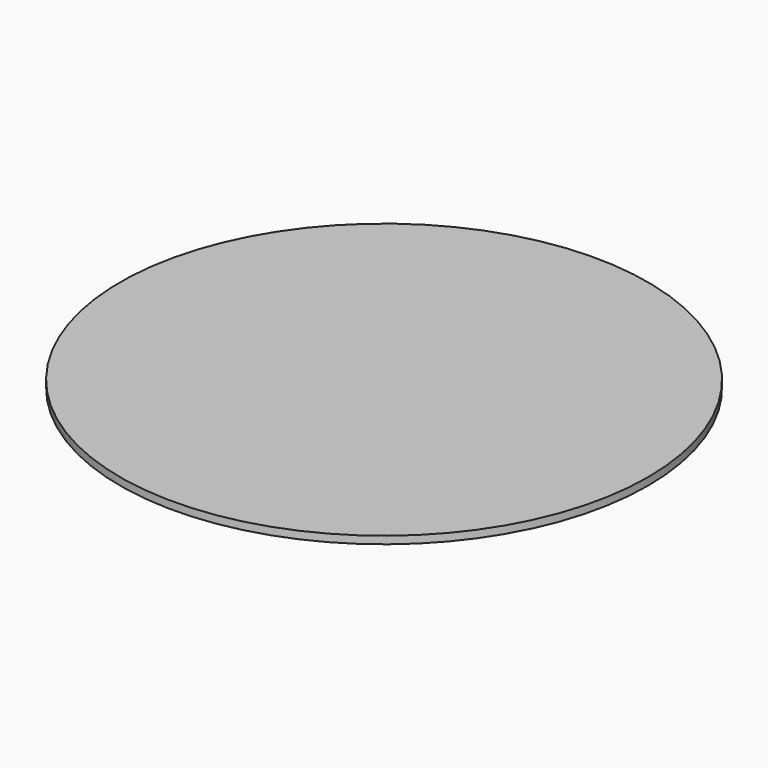
from build123d import *

# Parameters (mm, degrees)
SKETCH_R  = 14
PAD_DEPTH = 0.4


with BuildPart() as part:
    # Sketch → Pad (new body)
    with BuildSketch(Plane.XY):
        with Locations((14, 14)):
            Circle(SKETCH_R)
    extrude(amount=PAD_DEPTH)


solid = part.part
